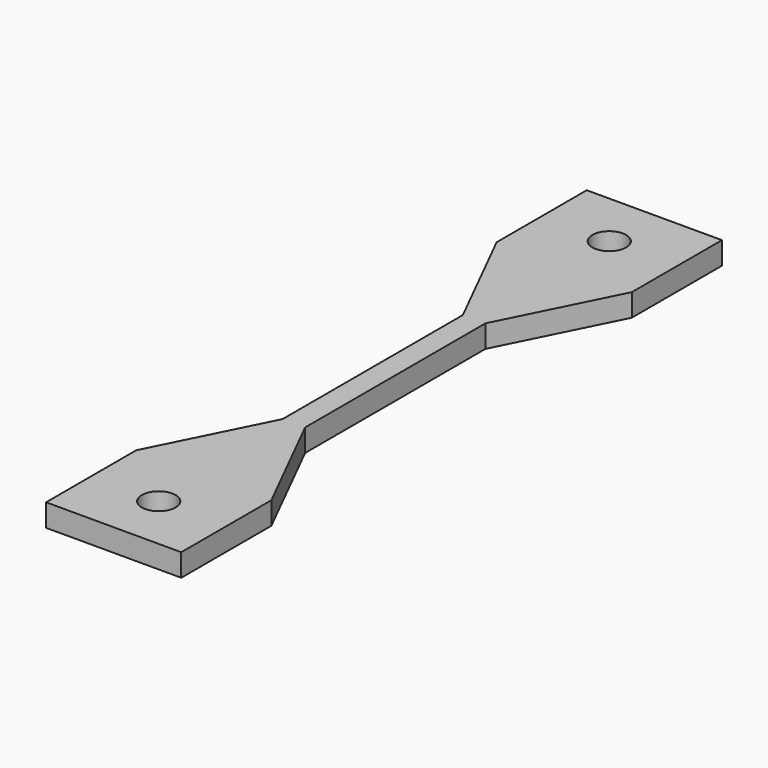
from build123d import *

# Parameters (mm, degrees)
F0_R     = 1.5
F1_DEPTH = 2


with BuildPart() as f1:
    # F0 (on Top) → F1 (new body)
    with BuildSketch(Plane.XY):
        Polygon((0, 10), (0, 0), (12, 0), (12, 10), (7, 20), (7, 40), (12, 50), (12, 60), (0, 60), (0, 50), (5, 40), (5, 20), align=None)
        with Locations((6, 5)):
            Circle(F0_R, mode=Mode.SUBTRACT)
        with Locations((6, 55)):
            Circle(F0_R, mode=Mode.SUBTRACT)
    extrude(amount=F1_DEPTH)


solid = f1.part
